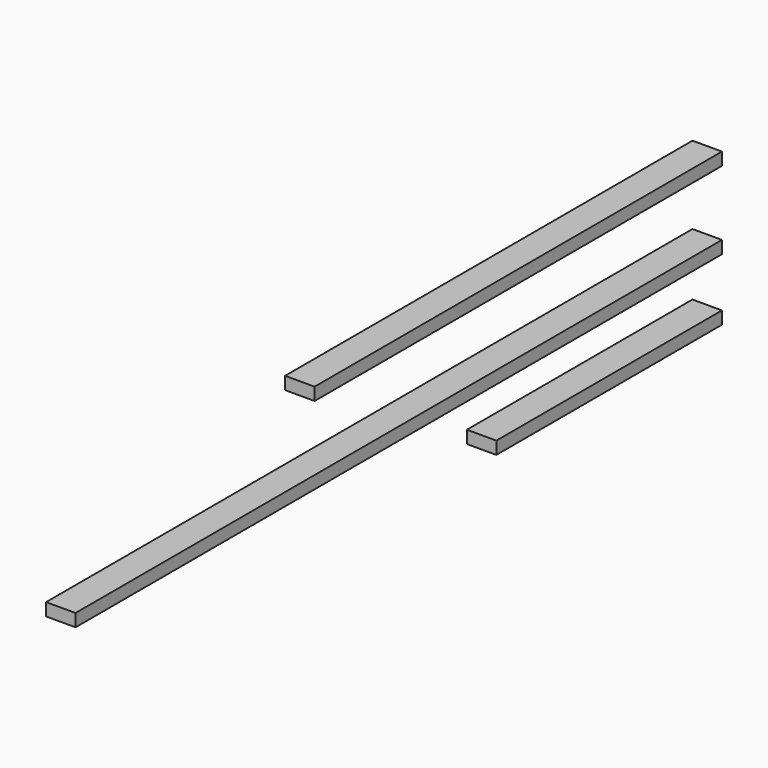
from build123d import *

# Parameters (mm, degrees)
F0_W     = 88.9
F0_H     = 38.1
F1_DEPTH = 425.45
F3_DEPTH = 1587.5
F5_DEPTH = 685.8


with BuildPart() as f1:
    # F0 (on Front) → F1 (new body, symmetric)
    with BuildSketch(Plane.XZ):
        Rectangle(F0_W, F0_H)
    extrude(amount=F1_DEPTH, both=True)


with BuildPart() as f2_1:
    # F2: copy of F1
    add(f1.part.moved(Location((0, 0, 187.32351))))

    # F3 (add): a face of the model
    f3_faces = [f2_1.faces().sort_by_distance(p)[0] for p in [
        (0, -425.45, 187.32351),
    ]]
    extrude(f3_faces, amount=F3_DEPTH)


with BuildPart() as f4_1:
    # F4: copy of F1
    add(f1.part.moved(Location((0, 0, 422.03298))))

    # F5 (add): a face of the model
    f5_faces = [f4_1.faces().sort_by_distance(p)[0] for p in [
        (0, -425.45, 422.03298),
    ]]
    extrude(f5_faces, amount=F5_DEPTH)


solid = Compound([f1.part, f2_1.part, f4_1.part])
